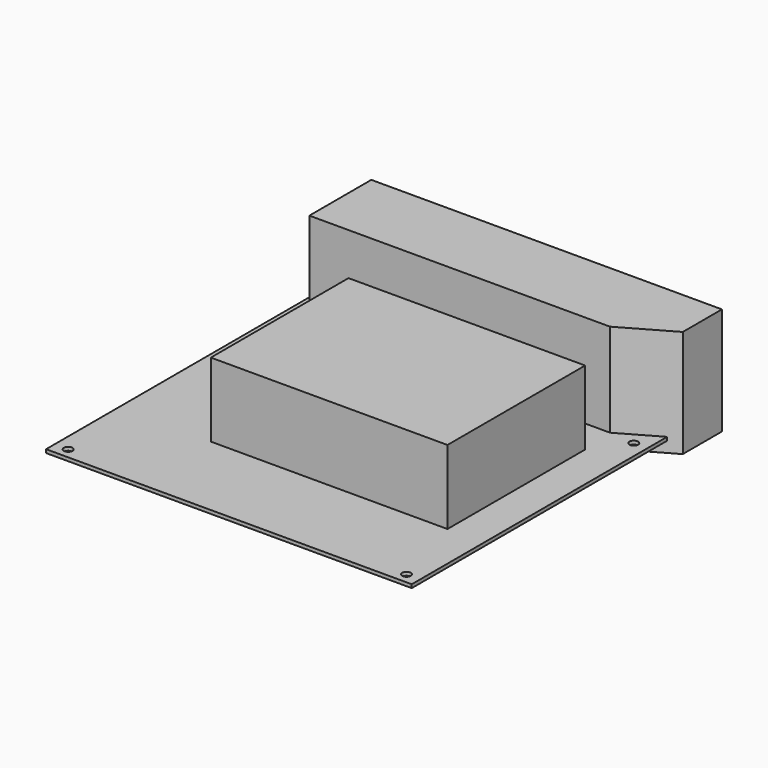
from build123d import *

# Parameters (mm, degrees)
SKETCH004_W  = 170
SKETCH004_H  = 170
SKETCH004_R  = 2
PAD004_DEPTH = 1.6
PAD007_DEPTH = 45
SKETCH042_W  = 110
SKETCH042_H  = 80
PAD022_DEPTH = 36
PAD029_DEPTH = 5


with BuildPart() as part:
    # Sketch004 → Pad004 (new body)
    with BuildSketch(Plane.XY):
        with Locations((85, 85)):
            Rectangle(SKETCH004_W, SKETCH004_H)
        with Locations((6.35, 4.8997)):
            Circle(SKETCH004_R, mode=Mode.SUBTRACT)
        with Locations((163.65, 4.8997)):
            Circle(SKETCH004_R, mode=Mode.SUBTRACT)
        with Locations((6.35, 159.84)):
            Circle(SKETCH004_R, mode=Mode.SUBTRACT)
        with Locations((163.65, 136.98)):
            Circle(SKETCH004_R, mode=Mode.SUBTRACT)
    extrude(amount=PAD004_DEPTH)

    # Sketch010 → Pad007 (join)
    with BuildSketch(Plane.XY):
        Polygon((12, 174), (12, 138), (151.758911, 138), (175, 151.249695), (175, 174), align=None)
    extrude(amount=PAD007_DEPTH)

    # Sketch042 → Pad022 (join)
    with BuildSketch(Plane.XY):
        with Locations((98, 82)):
            Rectangle(SKETCH042_W, SKETCH042_H)
    extrude(amount=PAD022_DEPTH)

    # Sketch010 → Pad029 (join)
    with BuildSketch(Plane.XY):
        Polygon((12, 174), (12, 138), (151.758911, 138), (175, 151.249695), (175, 174), align=None)
    extrude(amount=-PAD029_DEPTH)


with BuildPart() as part_1:
    # Body002 placement: moved
    add(part.part.moved(Location((59, -86, -131))))


solid = part_1.part
